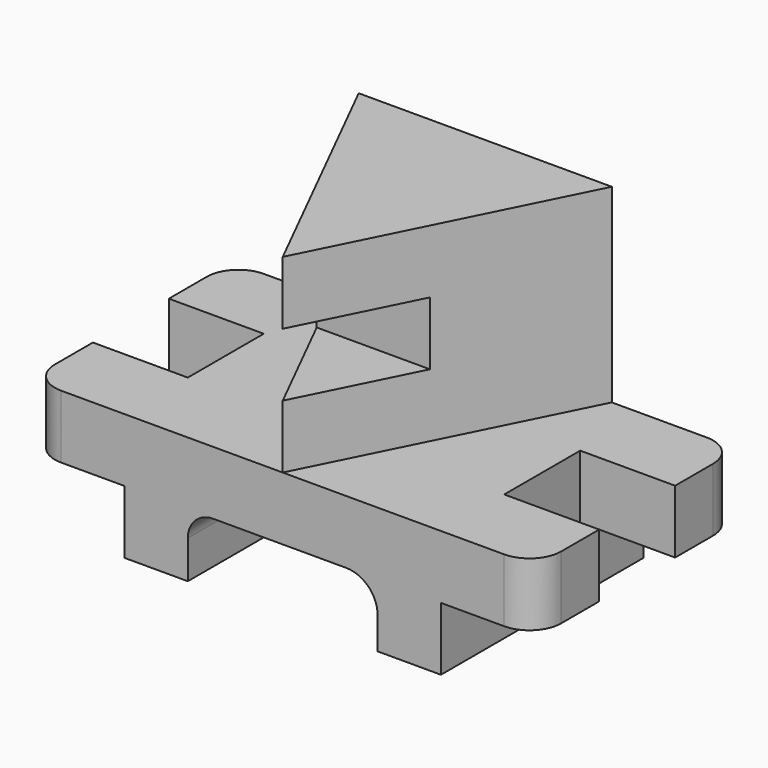
from build123d import *

# Parameters (mm, degrees)
F0_W      = 203.2
F0_H      = 25.4
F1_DEPTH  = 50.8
F3_DEPTH  = 25.4
F5_DEPTH  = 50.8
F7_DEPTH  = 25.4
F8_W      = 38.1
F8_H      = 38.1
F9_DEPTH  = 25.401
F10_R     = 12.7
F11_W     = 127
F11_H     = 25.4
F12_DEPTH = 101.6
F13_W     = 76.2
F13_H     = 25.4
F14_DEPTH = 101.601
F15_R     = 10.16
F16_R     = 12.7


with BuildPart() as f1:
    # F0 (on Front) → F1 (new body, symmetric)
    with BuildSketch(Plane.XZ):
        with Locations((101.6, 12.7)):
            Rectangle(F0_W, F0_H)
    extrude(amount=F1_DEPTH, both=True)

    # F2 (on face) → F3 (join)
    with BuildSketch(Plane.XY.offset(25.4)):
        Polygon((50.8, 50.8), (101.6, -50.8), (152.4, 50.8), align=None)
    extrude(amount=F3_DEPTH)

    # F4 (on face) → F5 (join)
    with BuildSketch(Plane.XY.offset(50.8)):
        Polygon((50.8, 50.8), (78.8815493486, -5.3630986972), (124.3184506514, -5.3630986972), (152.4, 50.8), align=None)
    extrude(amount=F5_DEPTH)

    # F6 (on face) → F7 (join)
    with BuildSketch(Plane.XY.offset(101.6)):
        Polygon((124.3184506514, -5.3630986972), (78.8815493486, -5.3630986972), (101.6, -50.8), align=None)
        Polygon((50.8, 50.8), (78.8815493486, -5.3630986972), (124.3184506514, -5.3630986972), (152.4, 50.8), align=None)
    extrude(amount=-F7_DEPTH)

    # F8 (on face) → F9 (cut, through all)
    with BuildSketch(Plane.XY.offset(25.4)):
        with Locations((19.05, 0)):
            Rectangle(F8_W, F8_H)
        with Locations((184.15, 0)):
            Rectangle(F8_W, F8_H)
    extrude(amount=-F9_DEPTH, mode=Mode.SUBTRACT)

    # F10
    f10_edges = [f1.edges().sort_by_distance(p)[0] for p in [
        (0, 50.8, 12.7),
        (0, -50.8, 12.7),
        (203.2, -50.8, 12.7),
        (203.2, 50.8, 12.7),
    ]]
    fillet(f10_edges, radius=F10_R)

    # F11 (on face) → F12 (join, through all)
    with BuildSketch(Plane.XZ.offset(50.8)):
        with Locations((101.6, -12.7)):
            Rectangle(F11_W, F11_H)
    extrude(amount=-F12_DEPTH)

    # F13 (on face) → F14 (cut, through all)
    with BuildSketch(Plane.XZ.offset(50.8)):
        with Locations((101.6, -12.7)):
            Rectangle(F13_W, F13_H)
    extrude(amount=-F14_DEPTH, mode=Mode.SUBTRACT)

    # F15
    f15_edges = [f1.edges().sort_by_distance(p)[0] for p in [
        (63.5, 0, 0),
    ]]
    fillet(f15_edges, radius=F15_R)

    # F16
    f16_edges = [f1.edges().sort_by_distance(p)[0] for p in [
        (139.7, 0, 0),
    ]]
    fillet(f16_edges, radius=F16_R)


solid = f1.part
